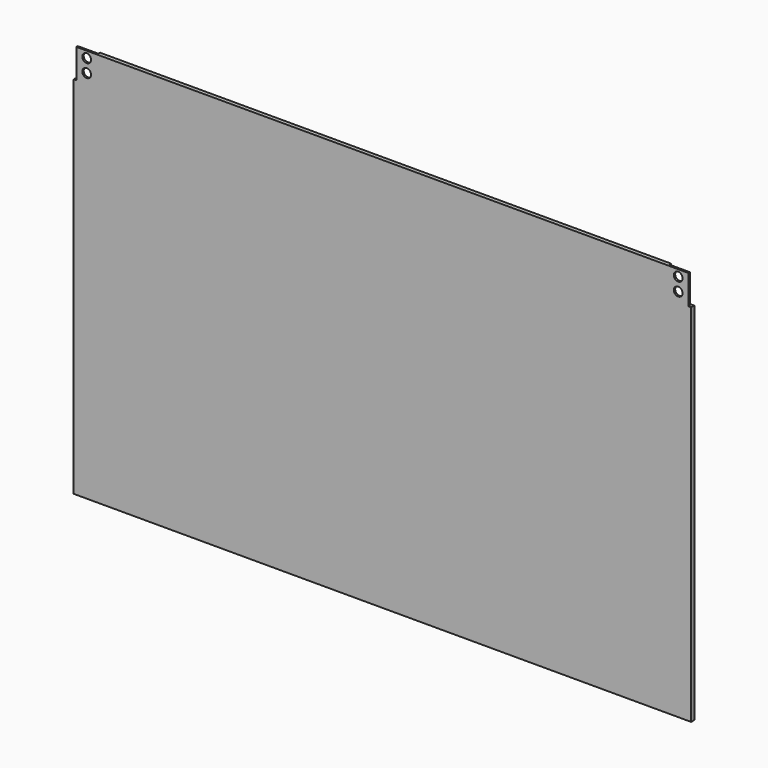
from build123d import *

# Parameters (mm, degrees)
F0_W     = 47
F0_H     = 67
F0_R     = 10
F1_DEPTH = 9
F2_DEPTH = 5


with BuildPart() as f1:
    # F0 (on Front) → F1 (new body)
    with BuildSketch(Plane.XZ):
        Polygon((667.428573, 488.978206), (-635.571427, 488.978206), (-635.571427, 421.978206), (-682.571427, 421.978206), (-688.571427, 421.978206), (-688.571427, -411.021794), (720.428573, -411.021794), (720.428573, 421.978206), (714.428573, 421.978206), (667.428573, 421.978206), align=None)
        with Locations((-659.071427, 455.478206)):
            Rectangle(F0_W, F0_H)
        with Locations((-659.071427, 443.978206)):
            Circle(F0_R, mode=Mode.SUBTRACT)
        with Locations((-659.071427, 473.978206)):
            Circle(F0_R, mode=Mode.SUBTRACT)
        with Locations((690.928573, 455.478206)):
            Rectangle(F0_W, F0_H)
        with Locations((690.928573, 443.978206)):
            Circle(F0_R, mode=Mode.SUBTRACT)
        with Locations((690.928573, 473.978206)):
            Circle(F0_R, mode=Mode.SUBTRACT)
    extrude(amount=F1_DEPTH)

    # F0 (on Front) → F2 (cut)
    with BuildSketch(Plane.XZ):
        with Locations((-659.071427, 455.478206)):
            Rectangle(F0_W, F0_H)
        with Locations((-659.071427, 443.978206)):
            Circle(F0_R, mode=Mode.SUBTRACT)
        with Locations((-659.071427, 473.978206)):
            Circle(F0_R, mode=Mode.SUBTRACT)
        with Locations((690.928573, 455.478206)):
            Rectangle(F0_W, F0_H)
        with Locations((690.928573, 443.978206)):
            Circle(F0_R, mode=Mode.SUBTRACT)
        with Locations((690.928573, 473.978206)):
            Circle(F0_R, mode=Mode.SUBTRACT)
    extrude(amount=F2_DEPTH, mode=Mode.SUBTRACT)


solid = f1.part
